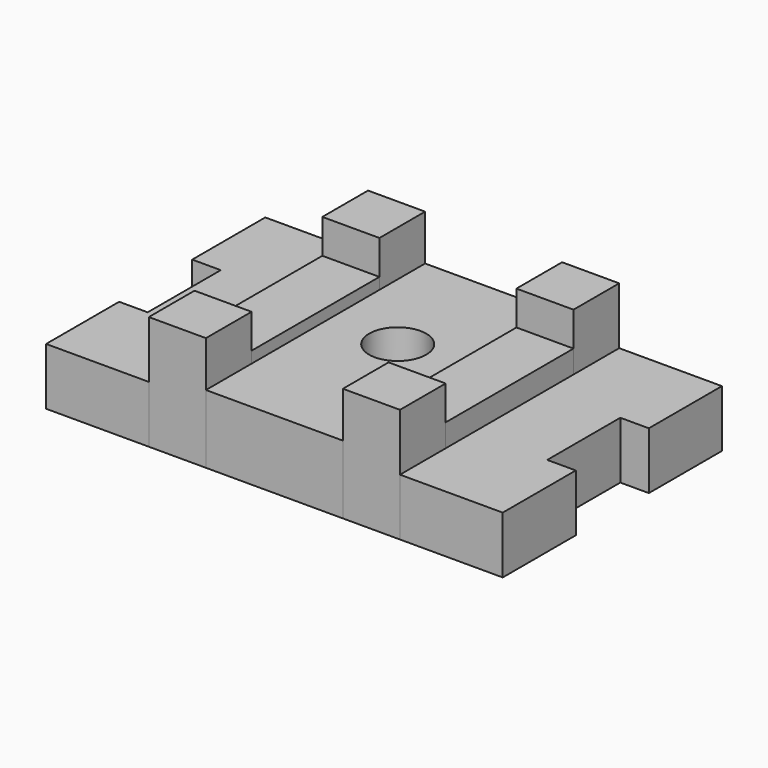
from build123d import *

# Parameters (mm, degrees)
F1_DEPTH = 31.75
F0_R     = 15.875
F2_DEPTH = 38.1
F0_W     = 31.75
F0_H     = 88.9
F3_DEPTH = 44.45
F0_H_2   = 31.75
F4_DEPTH = 63.5


with BuildPart() as f1:
    # F0 (on Top) → F1 (new body)
    with BuildSketch(Plane.XY):
        Polygon((-81.88489, 83.043418), (-139.03489, 83.043418), (-139.03489, 32.243418), (-123.15989, 32.243418), (-123.15989, -18.556582), (-139.03489, -18.556582), (-139.03489, -69.356582), (-81.88489, -69.356582), (-81.88489, -37.606582), (-81.88489, 51.293418), align=None)
        Polygon((114.96511, 83.043418), (57.81511, 83.043418), (57.81511, 51.293418), (57.81511, -37.606582), (57.81511, -69.356582), (114.96511, -69.356582), (114.96511, -18.556582), (99.09011, -18.556582), (99.09011, 32.243418), (114.96511, 32.243418), align=None)
    extrude(amount=F1_DEPTH)


with BuildPart() as f2:
    # F0 (on Top) → F2 (new body)
    with BuildSketch(Plane.XY):
        Polygon((26.06511, 83.043418), (-50.13489, 83.043418), (-50.13489, 51.293418), (-50.13489, -37.606582), (-50.13489, -69.356582), (26.06511, -69.356582), (26.06511, -37.606582), (26.06511, 51.293418), align=None)
        with Locations((-12.03489, 16.368418)):
            Circle(F0_R, mode=Mode.SUBTRACT)
    extrude(amount=F2_DEPTH)


with BuildPart() as f3:
    # F0 (on Top) → F3 (new body)
    with BuildSketch(Plane.XY):
        with Locations((-66.00989, 6.843418)):
            Rectangle(F0_W, F0_H)
        with Locations((41.94011, 6.843418)):
            Rectangle(F0_W, F0_H)
    extrude(amount=F3_DEPTH)


with BuildPart() as f4:
    # F0 (on Top) → F4 (new body)
    with BuildSketch(Plane.XY):
        with Locations((-66.00989, 67.168418)):
            Rectangle(F0_W, F0_H_2)
        with Locations((-66.00989, -53.481582)):
            Rectangle(F0_W, F0_H_2)
        with Locations((41.94011, 67.168418)):
            Rectangle(F0_W, F0_H_2)
        with Locations((41.94011, -53.481582)):
            Rectangle(F0_W, F0_H_2)
    extrude(amount=F4_DEPTH)


solid = Compound([f1.part, f2.part, f3.part, f4.part])
